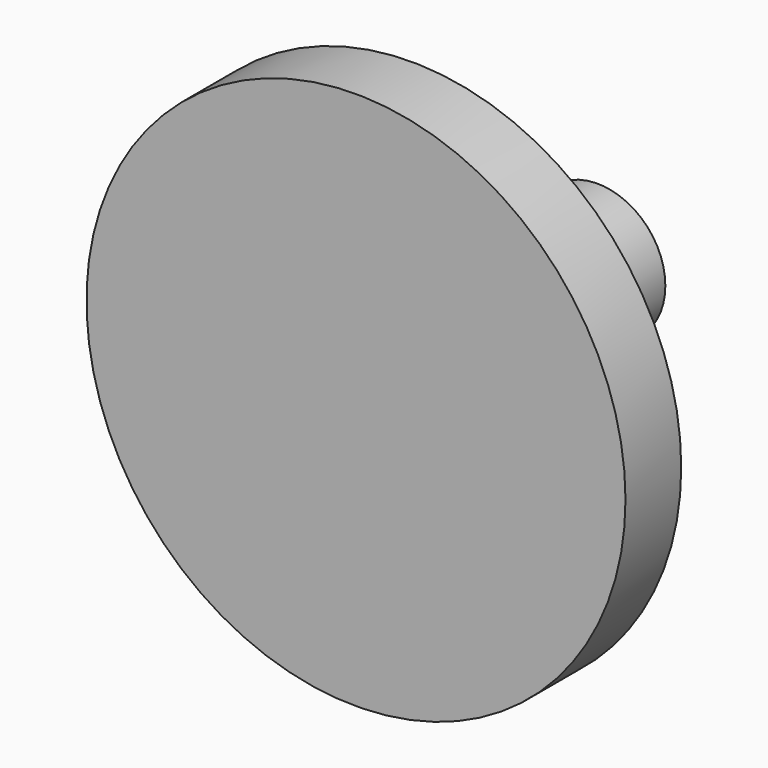
from build123d import *

# Parameters (mm, degrees)
F0_R     = 29.4761945826
F0_R_2   = 15.4337989403
F0_R_3   = 7.4174177389
F1_DEPTH = 7.62
F2_DEPTH = 10.16
F3_DEPTH = 25.4


with BuildPart() as f1:
    # F0 (on Front) → F1 (new body)
    with BuildSketch(Plane.XZ):
        Circle(F0_R)
        Circle(F0_R_2, mode=Mode.SUBTRACT)
        Circle(F0_R_2)
        Circle(F0_R_3, mode=Mode.SUBTRACT)
        Circle(F0_R_3)
    extrude(amount=F1_DEPTH)

    # F0 (on Front) → F2 (join)
    with BuildSketch(Plane.XZ):
        Circle(F0_R_2)
        Circle(F0_R_3, mode=Mode.SUBTRACT)
        Circle(F0_R_3)
    extrude(amount=-F2_DEPTH)

    # F0 (on Front) → F3 (join)
    with BuildSketch(Plane.XZ):
        Circle(F0_R_3)
    extrude(amount=-F3_DEPTH)


solid = f1.part
